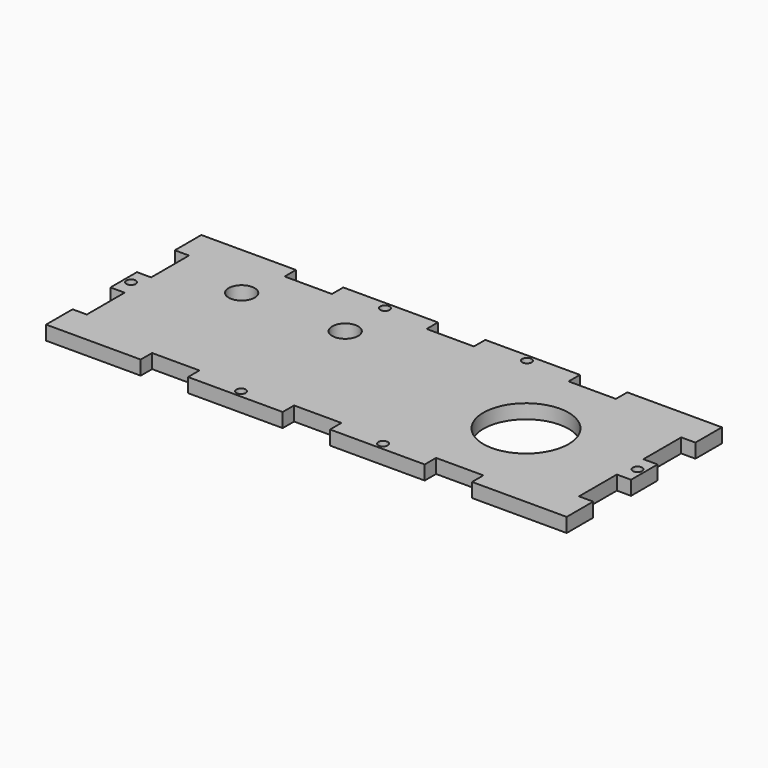
from build123d import *

# Parameters (mm, degrees)
F0_R     = 1
F0_R_2   = 2.75
F0_R_3   = 9
F1_DEPTH = 3


with BuildPart() as f1:
    # F0 (on Top) → F1 (new body)
    with BuildSketch(Plane.XY):
        Polygon((0, 7), (0, 0), (20, 0), (20, 3), (30, 3), (30, 0), (50, 0), (50, 3), (55, 3), (60, 3), (60, 0), (80, 0), (80, 3), (90, 3), (90, 0), (110, 0), (110, 7), (107, 7), (107, 17), (110, 17), (110, 24), (107, 24), (107, 34), (110, 34), (110, 41), (90, 41), (90, 38), (80, 38), (80, 41), (60, 41), (60, 38), (55, 38), (50, 38), (50, 41), (30, 41), (30, 38), (20, 38), (20, 41), (0, 41), (0, 34), (3, 34), (3, 24), (0, 24), (0, 17), (3, 17), (3, 7), align=None)
        with Locations((40, 1.5)):
            Circle(F0_R, mode=Mode.SUBTRACT)
        with Locations((70, 1.5)):
            Circle(F0_R, mode=Mode.SUBTRACT)
        with Locations((1.5, 20.576112)):
            Circle(F0_R, mode=Mode.SUBTRACT)
        with Locations((18.122429, 29)):
            Circle(F0_R_2, mode=Mode.SUBTRACT)
        with Locations((40, 29)):
            Circle(F0_R_2, mode=Mode.SUBTRACT)
        with Locations((40, 39.5)):
            Circle(F0_R, mode=Mode.SUBTRACT)
        with Locations((85, 20.5)):
            Circle(F0_R_3, mode=Mode.SUBTRACT)
        with Locations((108.5, 20.576112)):
            Circle(F0_R, mode=Mode.SUBTRACT)
        with Locations((70, 39.5)):
            Circle(F0_R, mode=Mode.SUBTRACT)
    extrude(amount=F1_DEPTH)


solid = f1.part
